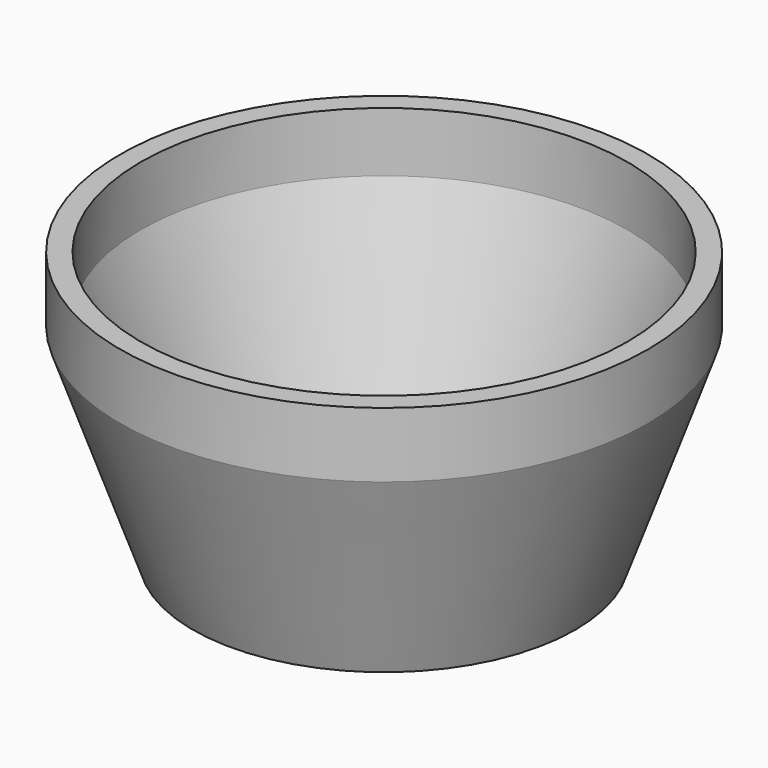
from build123d import *

# Parameters (mm, degrees)
F0_R     = 1.4605
F3_DEPTH = 12.7


with BuildPart() as f2:
    # F1 (on Front) → F2 (revolve)
    with BuildSketch(Plane.XZ):
        Polygon((21.289254, 1.614995), (0, 1.614995), (0, -1.560005), (22.86, -1.560005), (31.544961, 22.980944), (31.544961, 30.76515), (29.083, 30.76515), (29.083, 23.637652), align=None)
    revolve(axis=Axis((0, 0, 0.027495), (0, 0, 1)))

    # F0 (on Top) → F3 (cut, symmetric)
    with BuildSketch(Plane.XY):
        Circle(F0_R)
        with Locations((0, 3.81)):
            Circle(F0_R)
        with Locations((0, 7.62)):
            Circle(F0_R)
        with Locations((0, 11.43)):
            Circle(F0_R)
        with Locations((0, 15.24)):
            Circle(F0_R)
        with Locations((0, 19.05)):
            Circle(F0_R)
        with Locations((-3.299557, 1.905)):
            Circle(F0_R)
        with Locations((-3.299557, -1.905)):
            Circle(F0_R)
        with Locations((0, -3.81)):
            Circle(F0_R)
        with Locations((3.299557, -1.905)):
            Circle(F0_R)
        with Locations((3.299557, 1.905)):
            Circle(F0_R)
        with Locations((-3.81, 6.599114)):
            Circle(F0_R)
        with Locations((-6.599114, 3.81)):
            Circle(F0_R)
        with Locations((-7.62, 0)):
            Circle(F0_R)
        with Locations((-6.599114, -3.81)):
            Circle(F0_R)
        with Locations((-3.81, -6.599114)):
            Circle(F0_R)
        with Locations((0, -7.62)):
            Circle(F0_R)
        with Locations((3.81, -6.599114)):
            Circle(F0_R)
        with Locations((6.599114, -3.81)):
            Circle(F0_R)
        with Locations((7.62, 0)):
            Circle(F0_R)
        with Locations((6.599114, 3.81)):
            Circle(F0_R)
        with Locations((3.81, 6.599114)):
            Circle(F0_R)
        with Locations((-3.90929, 10.740687)):
            Circle(F0_R)
        with Locations((-7.347062, 8.755888)):
            Circle(F0_R)
        with Locations((-9.89867, 5.715)):
            Circle(F0_R)
        with Locations((-11.256353, 1.984799)):
            Circle(F0_R)
        with Locations((-11.256353, -1.984799)):
            Circle(F0_R)
        with Locations((-9.89867, -5.715)):
            Circle(F0_R)
        with Locations((-7.347062, -8.755888)):
            Circle(F0_R)
        with Locations((-3.90929, -10.740687)):
            Circle(F0_R)
        with Locations((0, -11.43)):
            Circle(F0_R)
        with Locations((3.90929, -10.740687)):
            Circle(F0_R)
        with Locations((7.347062, -8.755888)):
            Circle(F0_R)
        with Locations((9.89867, -5.715)):
            Circle(F0_R)
        with Locations((11.256353, -1.984799)):
            Circle(F0_R)
        with Locations((11.256353, 1.984799)):
            Circle(F0_R)
        with Locations((9.89867, 5.715)):
            Circle(F0_R)
        with Locations((7.347062, 8.755888)):
            Circle(F0_R)
        with Locations((3.90929, 10.740687)):
            Circle(F0_R)
        with Locations((-3.944402, 14.72071)):
            Circle(F0_R)
        with Locations((-7.62, 13.198227)):
            Circle(F0_R)
        with Locations((-10.776307, 10.776307)):
            Circle(F0_R)
        with Locations((-13.198227, 7.62)):
            Circle(F0_R)
        with Locations((-14.72071, 3.944402)):
            Circle(F0_R)
        with Locations((-15.24, 0)):
            Circle(F0_R)
        with Locations((-14.72071, -3.944402)):
            Circle(F0_R)
        with Locations((-13.198227, -7.62)):
            Circle(F0_R)
        with Locations((-10.776307, -10.776307)):
            Circle(F0_R)
        with Locations((-7.62, -13.198227)):
            Circle(F0_R)
        with Locations((-3.944402, -14.72071)):
            Circle(F0_R)
        with Locations((0, -15.24)):
            Circle(F0_R)
        with Locations((3.944402, -14.72071)):
            Circle(F0_R)
        with Locations((7.62, -13.198227)):
            Circle(F0_R)
        with Locations((10.776307, -10.776307)):
            Circle(F0_R)
        with Locations((13.198227, -7.62)):
            Circle(F0_R)
        with Locations((14.72071, -3.944402)):
            Circle(F0_R)
        with Locations((15.24, 0)):
            Circle(F0_R)
        with Locations((14.72071, 3.944402)):
            Circle(F0_R)
        with Locations((13.198227, 7.62)):
            Circle(F0_R)
        with Locations((10.776307, 10.776307)):
            Circle(F0_R)
        with Locations((7.62, 13.198227)):
            Circle(F0_R)
        with Locations((3.944402, 14.72071)):
            Circle(F0_R)
        with Locations((-3.960718, 18.633712)):
            Circle(F0_R)
        with Locations((-7.748333, 17.403041)):
            Circle(F0_R)
        with Locations((-11.197309, 15.411774)):
            Circle(F0_R)
        with Locations((-14.156909, 12.746938)):
            Circle(F0_R)
        with Locations((-16.497784, 9.525)):
            Circle(F0_R)
        with Locations((-18.117627, 5.886774)):
            Circle(F0_R)
        with Locations((-18.945642, 1.991267)):
            Circle(F0_R)
        with Locations((-18.945642, -1.991267)):
            Circle(F0_R)
        with Locations((-18.117627, -5.886774)):
            Circle(F0_R)
        with Locations((-16.497784, -9.525)):
            Circle(F0_R)
        with Locations((-14.156909, -12.746938)):
            Circle(F0_R)
        with Locations((-11.197309, -15.411774)):
            Circle(F0_R)
        with Locations((-7.748333, -17.403041)):
            Circle(F0_R)
        with Locations((-3.960718, -18.633712)):
            Circle(F0_R)
        with Locations((0, -19.05)):
            Circle(F0_R)
        with Locations((3.960718, -18.633712)):
            Circle(F0_R)
        with Locations((7.748333, -17.403041)):
            Circle(F0_R)
        with Locations((11.197309, -15.411774)):
            Circle(F0_R)
        with Locations((14.156909, -12.746938)):
            Circle(F0_R)
        with Locations((16.497784, -9.525)):
            Circle(F0_R)
        with Locations((18.117627, -5.886774)):
            Circle(F0_R)
        with Locations((18.945642, -1.991267)):
            Circle(F0_R)
        with Locations((18.945642, 1.991267)):
            Circle(F0_R)
        with Locations((18.117627, 5.886774)):
            Circle(F0_R)
        with Locations((16.497784, 9.525)):
            Circle(F0_R)
        with Locations((14.156909, 12.746938)):
            Circle(F0_R)
        with Locations((11.197309, 15.411774)):
            Circle(F0_R)
        with Locations((7.748333, 17.403041)):
            Circle(F0_R)
        with Locations((3.960718, 18.633712)):
            Circle(F0_R)
    extrude(amount=F3_DEPTH, both=True, mode=Mode.SUBTRACT)


solid = f2.part
